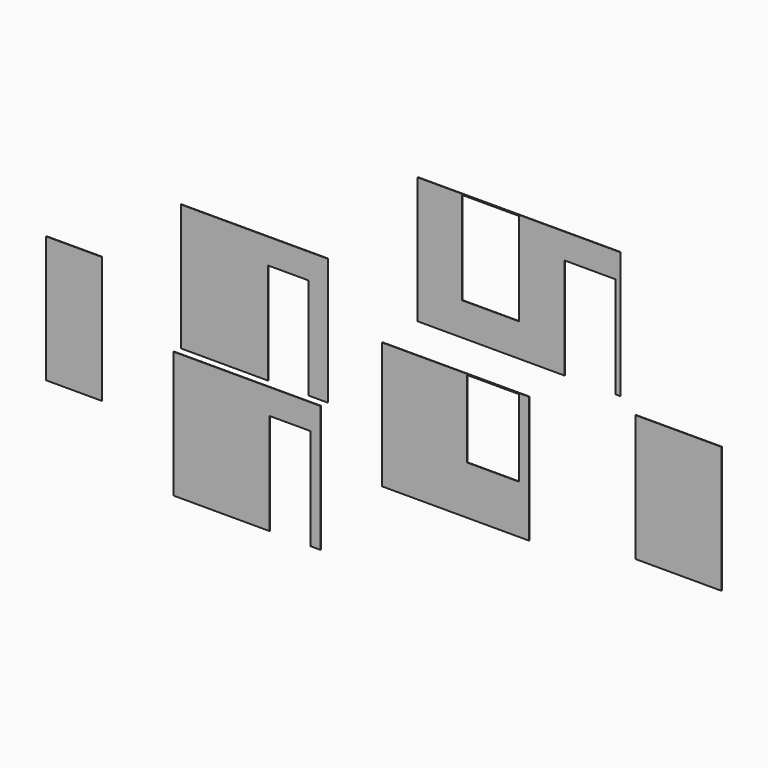
from build123d import *

# Parameters (mm, degrees)
F0_W     = 112
F0_H     = 183
F0_W_2   = 290
F0_H_2   = 250
F0_W_3   = 102
F0_H_3   = 152
F0_W_4   = 170
F1_DEPTH = 1
F2_W     = 110
F2_H     = 250
F3_DEPTH = 1


with BuildPart() as f1:
    # F0 (on Front) → F1 (new body)
    with BuildSketch(Plane.XZ):
        Polygon((-377.223074, 198.309932), (-667.223074, 198.309932), (-667.223074, -51.690068), (-495.223074, -51.690068), (-495.223074, 148.309932), (-415.223074, 148.309932), (-415.223074, -51.690068), (-377.223074, -51.690068), align=None)
        Polygon((-391.773194, -62.136889), (-681.773194, -62.136889), (-681.773194, -312.136889), (-491.773194, -312.136889), (-491.773194, -112.136889), (-411.773194, -112.136889), (-411.773194, -312.136889), (-391.773194, -312.136889), align=None)
        Polygon((200.066924, 397.292525), (-199.933076, 397.292525), (-199.933076, 147.292525), (90.066924, 147.292525), (90.066924, 347.292525), (190.066924, 347.292525), (190.066924, 147.292525), (200.066924, 147.292525), align=None)
        with Locations((-55.933076, 303.792525)):
            Rectangle(F0_W, F0_H, mode=Mode.SUBTRACT)
        with Locations((-125, -37.270844)):
            Rectangle(F0_W_2, F0_H_2)
        with Locations((-51, 9.729156)):
            Rectangle(F0_W_3, F0_H_3, mode=Mode.SUBTRACT)
        with Locations((314.752408, -0.89559)):
            Rectangle(F0_W_4, F0_H_2)
    extrude(amount=F1_DEPTH)


with BuildPart() as f3:
    # F2 (on Front) → F3 (new body)
    with BuildSketch(Plane.XZ):
        with Locations((-878.046148, -68.605915)):
            Rectangle(F2_W, F2_H)
    extrude(amount=F3_DEPTH)


solid = Compound([f1.part, f3.part])
